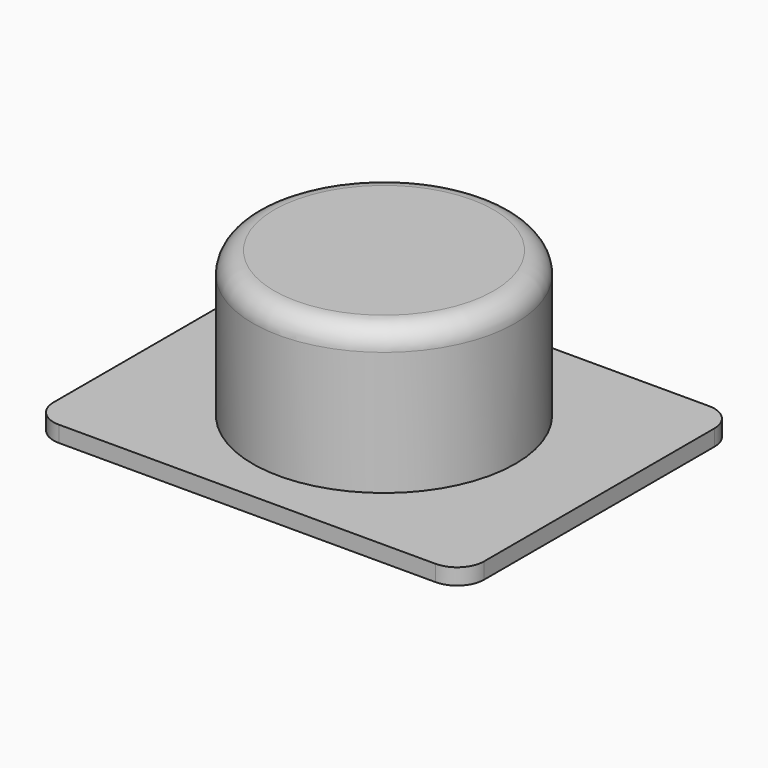
from build123d import *

# Parameters (mm, degrees)
SKETCH_W     = 80
SKETCH_H     = 63.5
PAD_DEPTH    = 3
SKETCH001_R  = 24.4
PAD001_DEPTH = 27
FILLET_R     = 4
FILLET001_R  = 5


with BuildPart() as part:
    # Sketch → Pad (new body)
    with BuildSketch(Plane.XY):
        Rectangle(SKETCH_W, SKETCH_H)
    extrude(amount=PAD_DEPTH)

    # Sketch001 (on Face6 of Pad) → Pad001 (join)
    with BuildSketch(Plane.XY.offset(3)):
        Circle(SKETCH001_R)
    extrude(amount=PAD001_DEPTH)

    # Fillet
    fillet_edges = [part.edges().sort_by_distance(p)[0] for p in [
        (-24.4, 0, 30),
    ]]
    fillet(fillet_edges, radius=FILLET_R)

    # Fillet001
    fillet001_edges = [part.edges().sort_by_distance(p)[0] for p in [
        (40, -31.75, 1.5),
        (40, 31.75, 1.5),
        (-40, 31.75, 1.5),
        (-40, -31.75, 1.5),
    ]]
    fillet(fillet001_edges, radius=FILLET001_R)


solid = part.part
